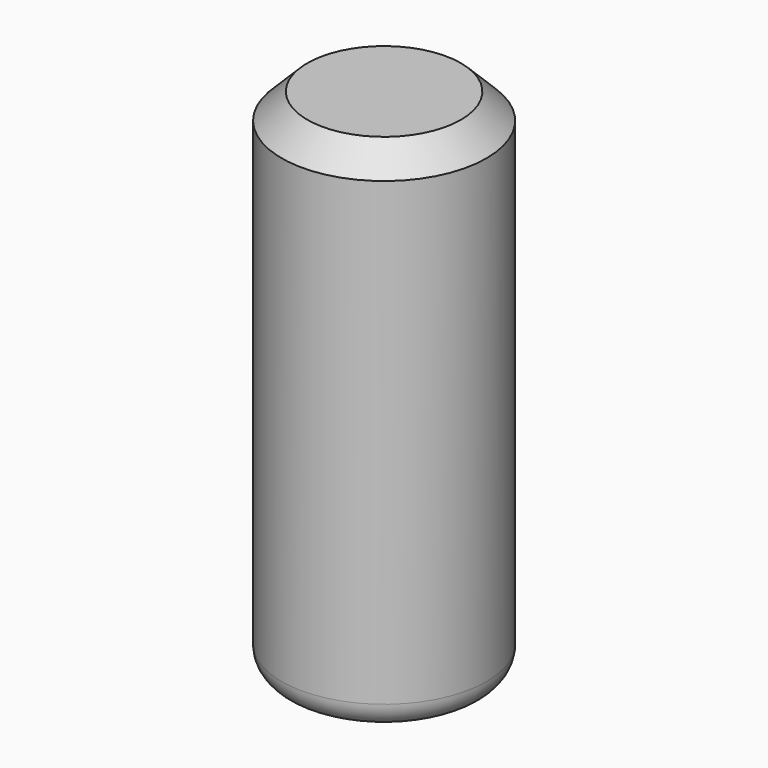
from build123d import *

# Parameters (mm, degrees)
F0_R     = 4
F1_DEPTH = 20
F2_R     = 1
F3_SIZE  = 1


with BuildPart() as f1:
    # F0 (on Top) → F1 (new body)
    with BuildSketch(Plane.XY):
        Circle(F0_R)
    extrude(amount=-F1_DEPTH)

    # F2
    f2_edges = [f1.edges().sort_by_distance(p)[0] for p in [
        (-4, 0, -20),
    ]]
    fillet(f2_edges, radius=F2_R)

    # F3
    f3_edges = [f1.edges().sort_by_distance(p)[0] for p in [
        (-4, 0, 0),
    ]]
    chamfer(f3_edges, length=F3_SIZE)


solid = f1.part
